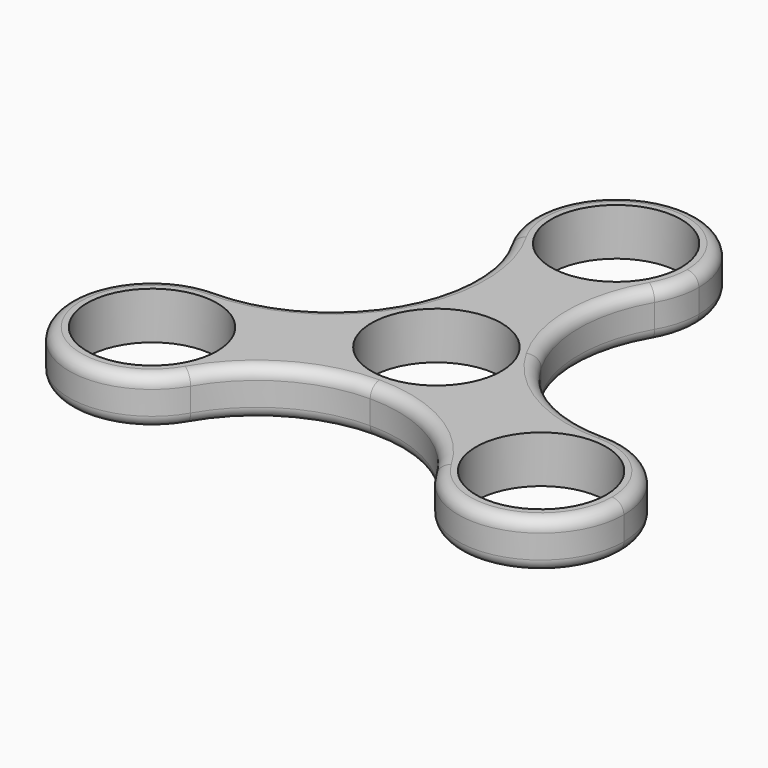
from build123d import *

# Parameters (mm, degrees)
F0_R     = 11
F1_DEPTH = 8
F2_R     = 2


with BuildPart() as f1:
    # F0 (on Top) → F1 (new body)
    with BuildSketch(Plane.XY):
        with BuildLine():
            ThreePointArc((-12.124355653, 31), (-8.9089653438, 18.9999998652), (-12.1243557878, 6.9999997665))
            ThreePointArc((-12.1243557878, 6.9999997665), (3.1e-08, 14), (12.1243558188, 6.9999997128))
            ThreePointArc((12.1243558188, 6.9999997128), (8.9089653438, 18.9999998342), (12.124355653, 31))
            ThreePointArc((12.124355653, 31), (0, 24), (-12.124355653, 31))
        make_face()
        with BuildLine():
            ThreePointArc((14, 0), (9.8994949413, -9.8994949319), (1.32e-08, -14))
            ThreePointArc((1.32e-08, -14), (12.0000000057, -17.2153903125), (20.7846096908, -26))
            ThreePointArc((20.7846096908, -26), (20.7846096908, -12), (32.9089653438, -5))
            ThreePointArc((32.9089653438, -5), (20.9089654874, -1.7846097737), (12.1243558188, 6.9999997128))
            ThreePointArc((12.1243558188, 6.9999997128), (13.522961611, 3.6234664712), (14, 0))
        make_face()
        with BuildLine():
            ThreePointArc((32.9089653438, -5), (20.7846096908, -12), (20.7846096908, -26))
            ThreePointArc((20.7846096908, -26), (36.5324319752, -32.522961568), (46.9089653438, -19))
            ThreePointArc((46.9089653438, -19), (42.8084602804, -9.1005050634), (32.9089653438, -5))
        make_face()
        with Locations((32.9089653438, -19)):
            Circle(F0_R, mode=Mode.SUBTRACT)
        with BuildLine():
            ThreePointArc((14, 38), (-3.6234666314, 51.522961568), (-12.124355653, 31))
            ThreePointArc((-12.124355653, 31), (0, 24), (12.124355653, 31))
            ThreePointArc((12.124355653, 31), (13.522961568, 34.3765333686), (14, 38))
        make_face()
        with Locations((0, 38)):
            Circle(F0_R, mode=Mode.SUBTRACT)
        with BuildLine():
            ThreePointArc((-32.9089653438, -5), (-23.0094704072, -9.1005050634), (-18.9089653438, -19))
            ThreePointArc((-18.9089653438, -19), (-19.3860037758, -22.6234666314), (-20.7846096908, -26))
            ThreePointArc((-20.7846096908, -26), (-11.9999999943, -17.2153903059), (1.32e-08, -14))
            ThreePointArc((1.32e-08, -14), (-12.1243555823, -7.0000001225), (-12.1243557878, 6.9999997665))
            ThreePointArc((-12.1243557878, 6.9999997665), (-20.9089654606, -1.7846097582), (-32.9089653438, -5))
        make_face()
        with BuildLine():
            ThreePointArc((-20.7846096908, -26), (-19.3860037758, -22.6234666314), (-18.9089653438, -19))
            ThreePointArc((-18.9089653438, -19), (-23.0094704072, -9.1005050634), (-32.9089653438, -5))
            ThreePointArc((-32.9089653438, -5), (-45.0333209968, -26), (-20.7846096908, -26))
        make_face()
        with Locations((-32.9089653438, -19)):
            Circle(F0_R, mode=Mode.SUBTRACT)
        with BuildLine():
            ThreePointArc((12.1243558188, 6.9999997128), (3.1e-08, 14), (-12.1243557878, 6.9999997665))
            ThreePointArc((-12.1243557878, 6.9999997665), (-12.1243555823, -7.0000001225), (1.32e-08, -14))
            ThreePointArc((1.32e-08, -14), (9.8994949413, -9.8994949319), (14, 0))
            ThreePointArc((14, 0), (13.522961611, 3.6234664712), (12.1243558188, 6.9999997128))
        make_face()
        Circle(F0_R, mode=Mode.SUBTRACT)
    extrude(amount=F1_DEPTH)

    # F2
    f2_edges = [f1.edges().sort_by_distance(p)[0] for p in [
        (-12.124356, 7, 8),
        (-12.124356, 7, 0),
        (12.124356, 7, 0),
        (0, 52, 0),
    ]]
    fillet(f2_edges, radius=F2_R)


solid = f1.part
